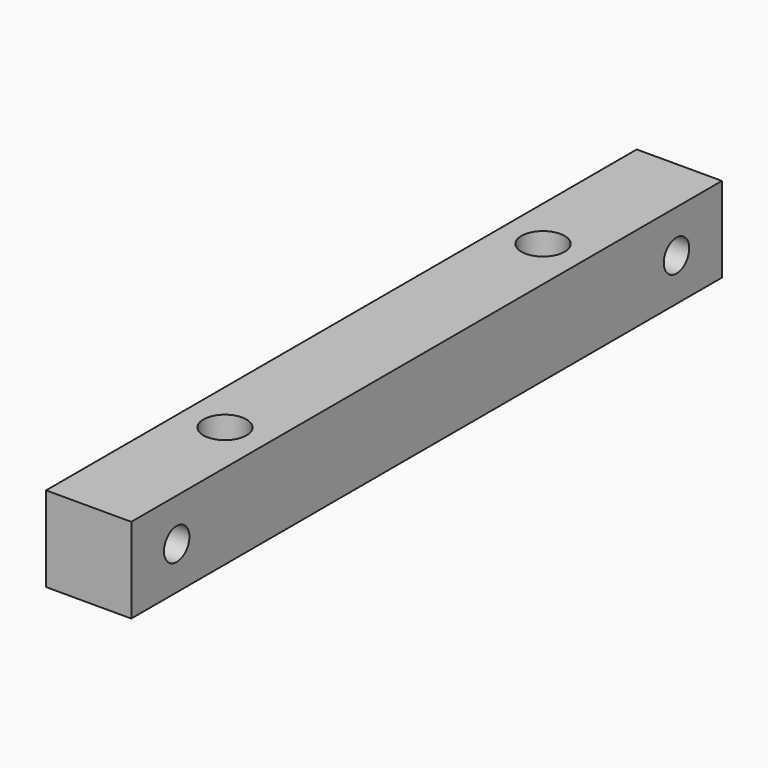
from build123d import *

# Parameters (mm, degrees)
F0_W     = 9.525
F0_H     = 9.525
F1_DEPTH = 41.275
F2_R     = 1.778
F3_DEPTH = 11.1125
F4_R     = 2.413
F5_DEPTH = 11.1125


with BuildPart() as f1:
    # F0 (on Front) → F1 (new body, symmetric)
    with BuildSketch(Plane.XZ):
        Rectangle(F0_W, F0_H)
    extrude(amount=F1_DEPTH, both=True)

    # F2 (on Right) → F3 (cut, symmetric)
    with BuildSketch(Plane.YZ):
        with Locations((34.925, 0)):
            Circle(F2_R)
        with Locations((-34.925, 0)):
            Circle(F2_R)
    extrude(amount=F3_DEPTH, both=True, mode=Mode.SUBTRACT)

    # F4 (on Top) → F5 (cut, symmetric)
    with BuildSketch(Plane.XY):
        with Locations((0, 22.225)):
            Circle(F4_R)
        with Locations((0, -22.225)):
            Circle(F4_R)
    extrude(amount=F5_DEPTH, both=True, mode=Mode.SUBTRACT)


solid = f1.part
